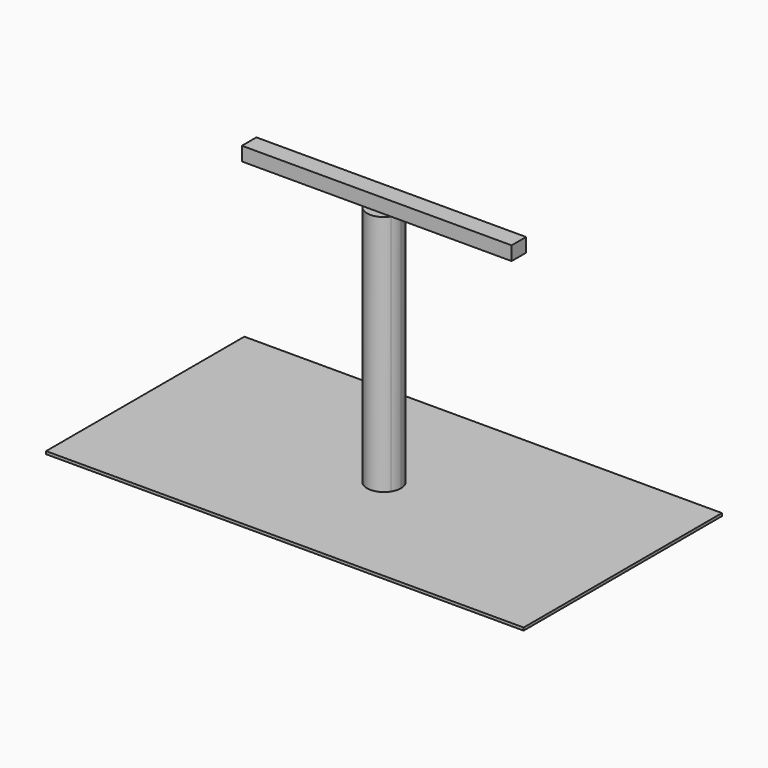
from build123d import *

# Parameters (mm, degrees)
F1_DEPTH = 5
F2_DEPTH = 87.2
F3_W     = 172.0396727324
F3_H     = 89.2892256379
F3_R     = 6.0911774304
F4_DEPTH = 1


with BuildPart() as f1:
    # F0 (on Top) → F1 (new body)
    with BuildSketch(Plane.XY):
        with BuildLine():
            Line((-48.5793091357, -3.2642639708), (-5.1426669363, -3.2642639708))
            ThreePointArc((-5.1426669363, -3.2642639708), (-6.0911774304, 0), (-5.1426669363, 3.2642639708))
            Line((-5.1426669363, 3.2642639708), (-48.5793091357, 3.2642639708))
            Line((-48.5793091357, 3.2642639708), (-48.5793091357, -3.2642639708))
        make_face()
        with BuildLine():
            Line((-5.1426669363, -3.2642639708), (5.1426669363, -3.2642639708))
            ThreePointArc((5.1426669363, -3.2642639708), (5.8492452189, -1.6996390373), (6.0911774304, 0))
            ThreePointArc((6.0911774304, 0), (5.8492452189, 1.6996390373), (5.1426669363, 3.2642639708))
            Line((5.1426669363, 3.2642639708), (-5.1426669363, 3.2642639708))
            ThreePointArc((-5.1426669363, 3.2642639708), (-6.0911774304, 0), (-5.1426669363, -3.2642639708))
        make_face()
        with BuildLine():
            Line((5.1426669363, -3.2642639708), (48.5793091357, -3.2642639708))
            Line((48.5793091357, -3.2642639708), (48.5793091357, 3.2642639708))
            Line((48.5793091357, 3.2642639708), (5.1426669363, 3.2642639708))
            ThreePointArc((5.1426669363, 3.2642639708), (5.8492452189, 1.6996390373), (6.0911774304, 0))
            ThreePointArc((6.0911774304, 0), (5.8492452189, -1.6996390373), (5.1426669363, -3.2642639708))
        make_face()
    extrude(amount=F1_DEPTH)

    # F0 (on Top) → F2 (join)
    with BuildSketch(Plane.XY):
        with BuildLine():
            ThreePointArc((-5.1426669363, -3.2642639708), (0, -6.0911774304), (5.1426669363, -3.2642639708))
            Line((5.1426669363, -3.2642639708), (-5.1426669363, -3.2642639708))
        make_face()
        with BuildLine():
            Line((-5.1426669363, 3.2642639708), (5.1426669363, 3.2642639708))
            ThreePointArc((5.1426669363, 3.2642639708), (0, 6.0911774304), (-5.1426669363, 3.2642639708))
        make_face()
        with BuildLine():
            Line((-5.1426669363, -3.2642639708), (5.1426669363, -3.2642639708))
            ThreePointArc((5.1426669363, -3.2642639708), (5.8492452189, -1.6996390373), (6.0911774304, 0))
            ThreePointArc((6.0911774304, 0), (5.8492452189, 1.6996390373), (5.1426669363, 3.2642639708))
            Line((5.1426669363, 3.2642639708), (-5.1426669363, 3.2642639708))
            ThreePointArc((-5.1426669363, 3.2642639708), (-6.0911774304, 0), (-5.1426669363, -3.2642639708))
        make_face()
    extrude(amount=-F2_DEPTH)


with BuildPart() as f4:
    # F3 (on face) → F4 (new body)
    with BuildSketch(Plane(origin=(0, 0, -87.2), x_dir=(1, 0, 0), z_dir=(0, 0, -1))):
        Rectangle(F3_W, F3_H)
        Circle(F3_R, mode=Mode.SUBTRACT)
    extrude(amount=F4_DEPTH)


solid = Compound([f1.part, f4.part])
